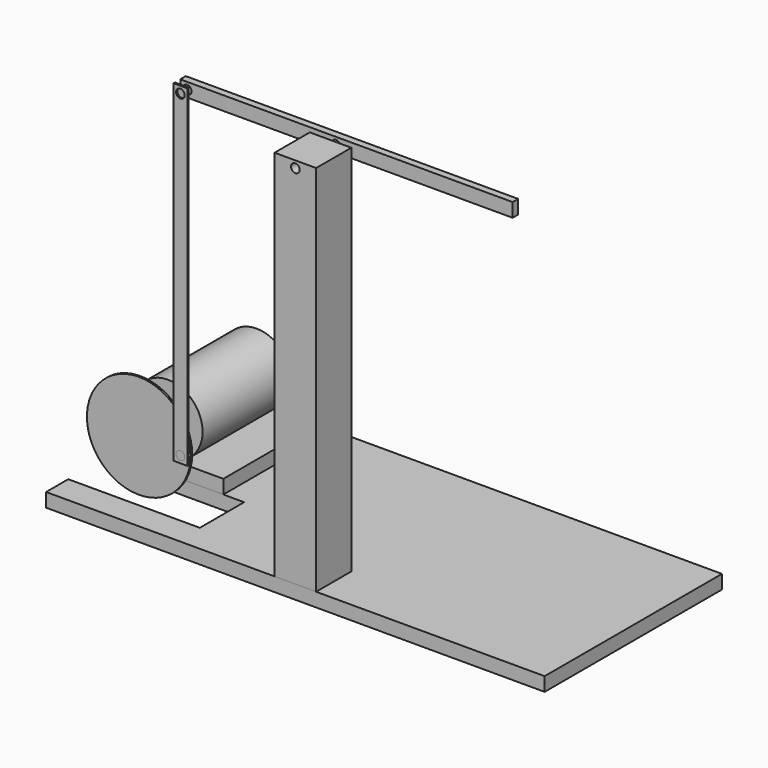
from build123d import *

# Parameters (mm, degrees)
F0_W          = 203.2
F0_H          = 254
F1_DEPTH      = 25.4
F2_R          = 63.5
F2_R_2        = 6.35
F3_DEPTH      = 203.2
F4_DEPTH      = 63.5
F4_DEPTH_BACK = 254
F5_R          = 95.25
F5_R_2        = 6.35
F6_DEPTH      = 3.175
F7_R          = 7.9375
F8_DEPTH      = 7.9375
F9_W          = 25.4
F9_H          = 609.6
F9_R          = 7.9375
F10_DEPTH     = 3.175
F11_W         = 203.2
F11_H         = 254
F12_DEPTH     = 25.4
F13_W         = 38.1
F13_H         = 684.1214105025
F14_DEPTH     = 80.645
F15_R         = 7.9375
F16_DEPTH     = 80.645
F17_R         = 7.9375
F18_DEPTH     = 25.4
F19_W         = 609.6
F19_H         = 25.4
F19_R         = 7.9375
F20_DEPTH     = 12.7


with BuildPart() as f1:
    # F0 (on Top) → F1 (new body)
    with BuildSketch(Plane.XY):
        with Locations((-101.6, -127)):
            Rectangle(F0_W, F0_H)
    extrude(amount=F1_DEPTH)


with BuildPart() as f3:
    # F2 (on face) → F3 (new body)
    with BuildSketch(Plane.XZ.offset(254)):
        with Locations((-101.6, 88.9)):
            Circle(F2_R)
        with Locations((-101.6, 88.9)):
            Circle(F2_R_2, mode=Mode.SUBTRACT)
    extrude(amount=-F3_DEPTH)


with BuildPart() as f4:
    # F2 (on face) → F4 (new body, two sides)
    with BuildSketch(Plane.XZ.offset(254)) as f4_sk:
        with Locations((-101.6, 88.9)):
            Circle(F2_R_2)
    extrude(amount=F4_DEPTH)
    extrude(f4_sk.sketch, amount=-F4_DEPTH_BACK)

    # F5 (on face) → F6 (join)
    with BuildSketch(Plane.XZ.offset(317.5)):
        with Locations((-101.6, 88.9)):
            Circle(F5_R)
        with BuildLine():
            ThreePointArc((-19.6098160353, 79.3024881643), (-184.1329318351, 90.5785894975), (-19.2873836435, 95.1558523443))
            ThreePointArc((-19.2873836435, 95.1558523443), (-13.5328495146, 92.9114307293), (-11.1295681649, 87.2214105025))
            ThreePointArc((-11.1295681649, 87.2214105025), (-13.6496958762, 81.4200327579), (-19.6098160353, 79.3024881643))
        make_face(mode=Mode.SUBTRACT)
        with BuildLine():
            ThreePointArc((-19.6098160353, 79.3024881643), (-27.0029269952, 87.3828133388), (-19.2873836435, 95.1558523443))
            ThreePointArc((-19.2873836435, 95.1558523443), (-184.1329318351, 90.5785894975), (-19.6098160353, 79.3024881643))
        make_face()
        with Locations((-101.6, 88.9)):
            Circle(F5_R_2, mode=Mode.SUBTRACT)
        with Locations((-101.6, 88.9)):
            Circle(F5_R_2)
    extrude(amount=F6_DEPTH)

    # F7 (on face) → F8 (join, symmetric)
    with BuildSketch(Plane.XZ.offset(320.675)):
        with Locations((-19.0670681649, 87.2214105025)):
            Circle(F7_R)
    extrude(amount=F8_DEPTH, both=True)


with BuildPart() as f10:
    # F9 (on face) → F10 (new body)
    with BuildSketch(Plane.XZ.offset(328.6125)):
        with Locations((-19.0670681649, 379.3214105025)):
            Rectangle(F9_W, F9_H)
        with Locations((-19.0670681649, 87.2214105025)):
            Circle(F9_R, mode=Mode.SUBTRACT)
        with Locations((-19.0670681649, 671.4214105025)):
            Circle(F9_R, mode=Mode.SUBTRACT)
    extrude(amount=-F10_DEPTH)

    # F17 (on face) → F18, piece 2 (join)
    with BuildSketch(Plane(origin=(0, -325.755, 0), x_dir=(-1, 0, 0), z_dir=(0, 1, 0))):
        with Locations((19.0670681649, 671.4214105025)):
            Circle(F17_R)
    extrude(amount=F18_DEPTH)


with BuildPart() as f12:
    # F11 (on face) → F12 (new body)
    with BuildSketch(Plane.XY):
        with Locations((-101.6, -127)):
            Rectangle(F11_W, F11_H)
        Polygon((0, 0), (0, -254), (38.1, -254), (38.1, -355.6), (-203.2, -355.6), (-203.2, -406.4), (711.2, -406.4), (711.2, 0), align=None)
    extrude(amount=-F12_DEPTH)


with BuildPart() as f14:
    # F13 (on face) → F14 (new body)
    with BuildSketch(Plane.XZ.offset(406.4)):
        with Locations((273.05, 342.0607052513)):
            Rectangle(F13_W, F13_H)
        with Locations((234.95, 342.0607052513)):
            Rectangle(F13_W, F13_H)
    extrude(amount=-F14_DEPTH)

    # F15 (on face) → F16 (cut, through all)
    with BuildSketch(Plane.XZ.offset(406.4)):
        with Locations((254, 671.4214105025)):
            Circle(F15_R)
    extrude(amount=-F16_DEPTH, mode=Mode.SUBTRACT)

    # F17 (on face) → F18 (join)
    with BuildSketch(Plane(origin=(0, -325.755, 0), x_dir=(-1, 0, 0), z_dir=(0, 1, 0))):
        with Locations((-254, 671.4214105025)):
            Circle(F17_R)
    extrude(amount=F18_DEPTH)


with BuildPart() as f20:
    # F19 (on face) → F20 (new body)
    with BuildSketch(Plane(origin=(0, -300.355, 0), x_dir=(-1, 0, 0), z_dir=(0, 1, 0))):
        with Locations((-273.0329318351, 671.4214105025)):
            Rectangle(F19_W, F19_H)
        with Locations((-254, 671.4214105025)):
            Circle(F19_R, mode=Mode.SUBTRACT)
        with Locations((19.0670681649, 671.4214105025)):
            Circle(F19_R, mode=Mode.SUBTRACT)
    extrude(amount=-F20_DEPTH)


solid = Compound([f1.part, f3.part, f4.part, f10.part, f12.part, f14.part, f20.part])
